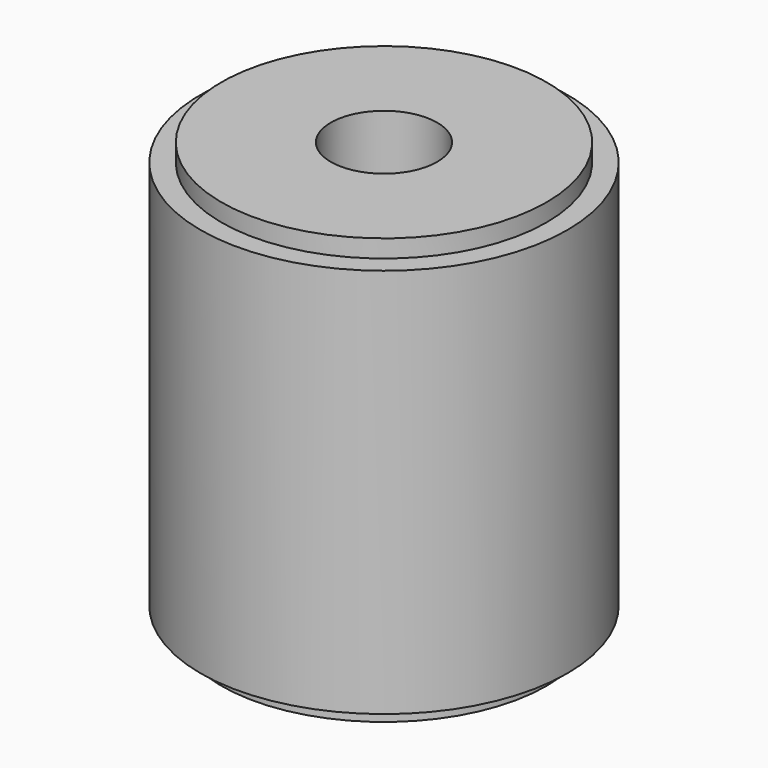
from build123d import *

# Parameters (mm, degrees)
F1_START = 3
F0_R     = 31
F0_R_2   = 27.5
F1_DEPTH = 66
F0_R_3   = 9
F2_DEPTH = 72


with BuildPart() as f1:
    # F0 (on Top) → F1 (new body)
    with BuildSketch(Plane.XY.offset(F1_START)):
        Circle(F0_R)
        Circle(F0_R_2, mode=Mode.SUBTRACT)
    extrude(amount=F1_DEPTH)

    # F0 (on Top) → F2 (join)
    with BuildSketch(Plane.XY):
        Circle(F0_R_2)
        Circle(F0_R_3, mode=Mode.SUBTRACT)
    extrude(amount=F2_DEPTH)


solid = f1.part
